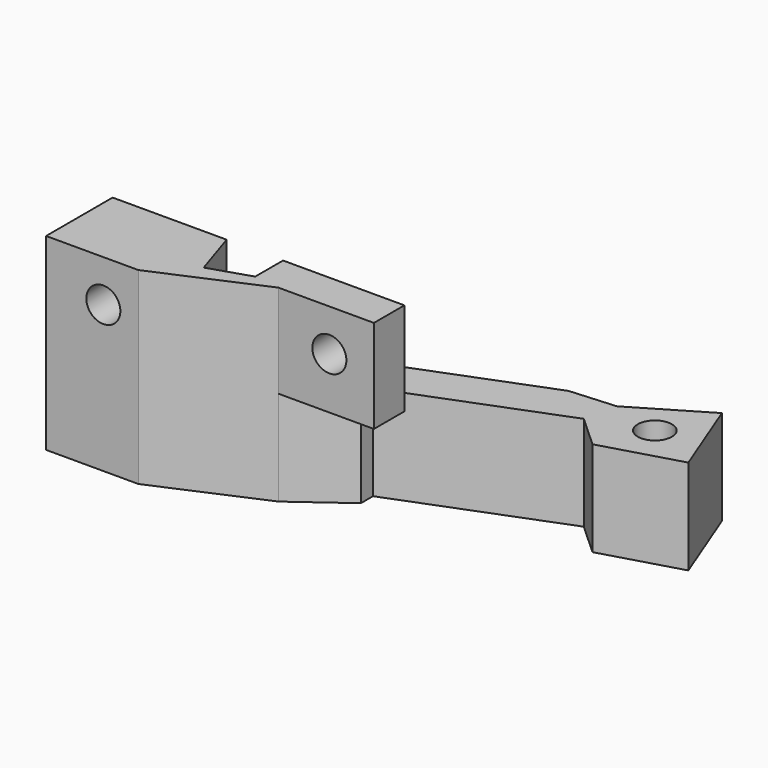
from build123d import *

# Parameters (mm, degrees)
F2_DEPTH  = 23.8
F2_FACE_W = 11.670614
F2_FACE_H = 23.8
F1_R      = 2.15
F3_DEPTH  = 25
F0_R      = 2.15
F4_DEPTH  = 12
F5_DEPTH  = 12


with BuildPart() as f2:
    # F0 (on Top) → F2 (new body)
    with BuildSketch(Plane.XY):
        Polygon((-27.997939, -6.107914), (-28.312882, -16.618271), (-15.182475, -10.918183), (-8.610408, -6.107914), (-18.446828, -6.107914), (-18.446828, -10.508162), (-23.616951, -12.177606), (-25.576867, -6.107914), align=None)
        Polygon((-8.610408, -6.107914), (-15.182475, -10.918183), (-3.116295, -10.918183), (-3.116295, -6.107914), align=None)
        Polygon((-39.983496, -6.107914), (-39.983496, -16.618271), (-28.312882, -16.618271), (-27.997939, -6.107914), align=None)
    extrude(amount=F2_DEPTH)

    # F2_face (on face) + F1 (on Front) → F3 (cut)
    with BuildSketch(Plane(origin=(-34.148189, -16.618271, 11.9), x_dir=(1, 0, 0), z_dir=(0, -1, 0))):
        Rectangle(F2_FACE_W, F2_FACE_H)
    with BuildSketch(Plane.XZ):
        with Locations((-32.747678, 18.5)):
            Circle(F1_R)
        with Locations((-8.747678, 18.5)):
            Circle(F1_R)
    extrude(amount=F3_DEPTH, mode=Mode.SUBTRACT)

    # F0 (on Top) → F4 (join)
    with BuildSketch(Plane.XY):
        Polygon((6.790542, 7.431474), (-27.997939, -6.107914), (-25.576867, -6.107914), (-18.446828, -6.107914), (-8.610408, -6.107914), (-8.610408, -4.192226), (11.700466, 3.712598), (15.768237, 0), (25.596975, 2.855423), (21.576397, 13.186007), (12.574072, 7.844407), align=None)
        with Locations((18.730204, 6.14762)):
            Circle(F0_R, mode=Mode.SUBTRACT)
        Polygon((-18.446828, -6.107914), (-25.576867, -6.107914), (-23.616951, -12.177606), (-18.446828, -10.508162), align=None)
        with Locations((-21.747678, -8.362398)):
            Circle(F0_R, mode=Mode.SUBTRACT)
    extrude(amount=F4_DEPTH)

    # F0 (on Top) → F5 (cut)
    with BuildSketch(Plane.XY):
        Polygon((-8.610408, -6.107914), (-15.182475, -10.918183), (-3.116295, -10.918183), (-3.116295, -6.107914), align=None)
    extrude(amount=F5_DEPTH, mode=Mode.SUBTRACT)


solid = f2.part
